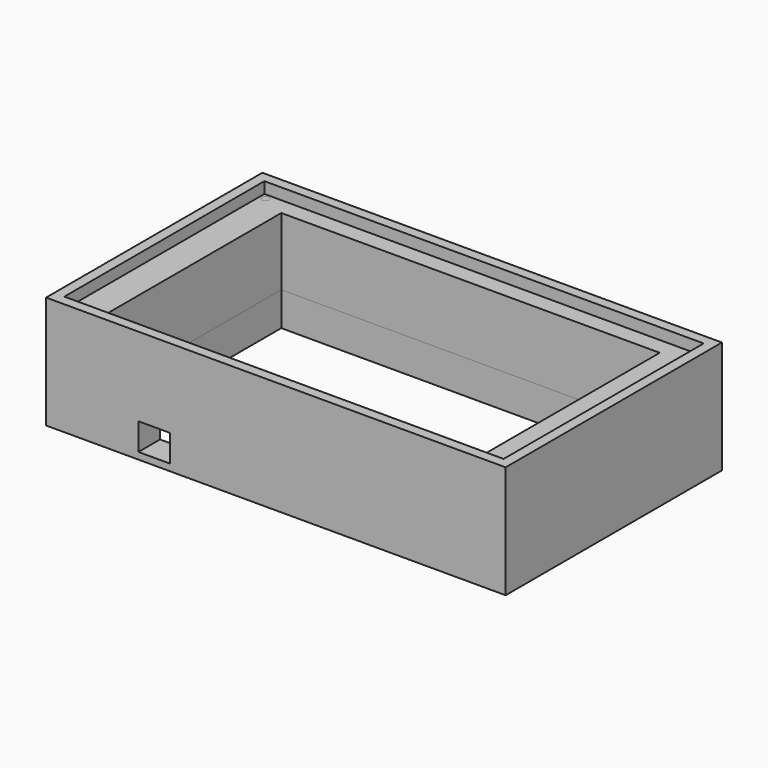
from build123d import *

# Parameters (mm, degrees)
F0_W      = 195
F0_H      = 111
F1_DEPTH  = 15
F0_R      = 1.6
F0_W_2    = 168
F0_H_2    = 96
F2_DEPTH  = 15
F3_DEPTH  = 35
F4_DEPTH  = 30
F5_DEPTH  = 30
F6_DEPTH  = 30
F7_DEPTH  = 30
F8_DEPTH  = 30
F9_W      = 14
F9_H      = 12
F10_DEPTH = 25


with BuildPart() as f1:
    # F0 (on Top) → F1 (new body)
    with BuildSketch(Plane.XY):
        Polygon((102, 53), (102, 60), (95, 60), (-95, 60), (-102, 60), (-102, 53), (-102, -53), (-102, -60), (-95, -60), (95, -60), (102, -60), (102, -53), align=None)
        Rectangle(F0_W, F0_H, mode=Mode.SUBTRACT)
    extrude(amount=-F1_DEPTH)

    # F0 (on Top) → F2 (join)
    with BuildSketch(Plane.XY):
        Rectangle(F0_W, F0_H)
        with Locations((-95, -53)):
            Circle(F0_R, mode=Mode.SUBTRACT)
        with Locations((95, -53)):
            Circle(F0_R, mode=Mode.SUBTRACT)
        with Locations((-95, 53)):
            Circle(F0_R, mode=Mode.SUBTRACT)
        Rectangle(F0_W_2, F0_H_2, mode=Mode.SUBTRACT)
        with Locations((95, 53)):
            Circle(F0_R, mode=Mode.SUBTRACT)
    extrude(amount=-F2_DEPTH)

    # F0 (on Top) → F3 (join)
    with BuildSketch(Plane.XY):
        Polygon((102, 53), (102, 60), (95, 60), (-95, 60), (-102, 60), (-102, 53), (-102, -53), (-102, -60), (-95, -60), (95, -60), (102, -60), (102, -53), align=None)
        Rectangle(F0_W, F0_H, mode=Mode.SUBTRACT)
    extrude(amount=F3_DEPTH)

    # F9 (on face) → F10 (cut)
    with BuildSketch(Plane.XZ.offset(60)):
        with Locations((-54, -6)):
            Rectangle(F9_W, F9_H)
    extrude(amount=-F10_DEPTH, mode=Mode.SUBTRACT)


with BuildPart() as f4:
    # F0 (on Top) → F4 (new body)
    with BuildSketch(Plane.XY):
        with Locations((95, 53)):
            Circle(F0_R)
    extrude(amount=F4_DEPTH)


with BuildPart() as f5:
    # F0 (on Top) → F5 (new body)
    with BuildSketch(Plane.XY):
        with Locations((-95, 53)):
            Circle(F0_R)
    extrude(amount=F5_DEPTH)


with BuildPart() as f6:
    # F0 (on Top) → F6 (new body)
    with BuildSketch(Plane.XY):
        with Locations((95, -53)):
            Circle(F0_R)
    extrude(amount=F6_DEPTH)


with BuildPart() as f7:
    # F0 (on Top) → F7 (new body)
    with BuildSketch(Plane.XY):
        with Locations((-95, -53)):
            Circle(F0_R)
    extrude(amount=F7_DEPTH)


with BuildPart() as f8:
    # F0 (on Top) → F8 (new body)
    with BuildSketch(Plane.XY):
        Rectangle(F0_W, F0_H)
        with Locations((-95, -53)):
            Circle(F0_R, mode=Mode.SUBTRACT)
        with Locations((95, -53)):
            Circle(F0_R, mode=Mode.SUBTRACT)
        with Locations((-95, 53)):
            Circle(F0_R, mode=Mode.SUBTRACT)
        Rectangle(F0_W_2, F0_H_2, mode=Mode.SUBTRACT)
        with Locations((95, 53)):
            Circle(F0_R, mode=Mode.SUBTRACT)
    extrude(amount=F8_DEPTH)


solid = Compound([f1.part, f4.part, f5.part, f6.part, f7.part, f8.part])
